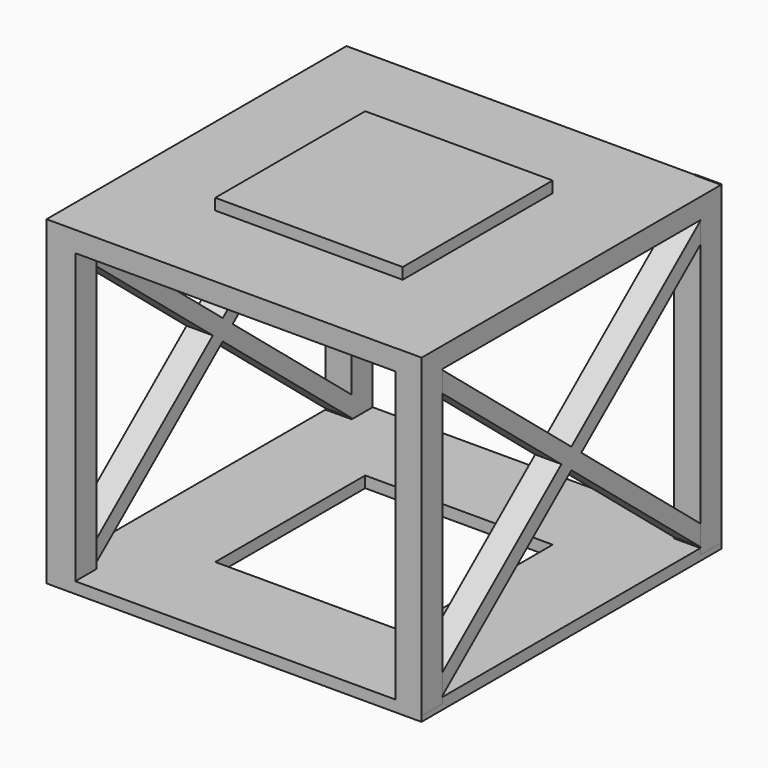
from build123d import *

# Parameters (mm, degrees)
F0_W      = 100
F0_H      = 100
F1_DEPTH  = 3
F3_DEPTH  = 7
F5_DEPTH  = 7
F7_DEPTH  = 7
F9_DEPTH  = 7
F10_W     = 100.0225
F10_H     = 5.475754
F11_DEPTH = 100
F12_W     = 50.0005
F12_H     = 50
F13_DEPTH = 3
F14_W     = 50
F14_H     = 50
F15_DEPTH = 25
F16_W     = 7.665687
F16_H     = 7
F17_DEPTH = 84.7
F18_W     = 7
F18_H     = 7
F19_DEPTH = 84.1


with BuildPart() as f1:
    # F0 (on Top) → F1 (new body)
    with BuildSketch(Plane.XY):
        with Locations((5.625, -3.024291)):
            Rectangle(F0_W, F0_H)
    extrude(amount=F1_DEPTH)

    # F2 (on face) → F3 (join)
    with BuildSketch(Plane(origin=(-44.375, 0, 0), x_dir=(0, -1, 0), z_dir=(-1, 0, 0))):
        Polygon((-46.975709, 0), (-43.975709, 0), (53.024291, 80.049396), (53.024291, 85.52515), (-46.975709, 3), align=None)
    extrude(amount=-F3_DEPTH)

    # F4 (on face) → F5 (join)
    with BuildSketch(Plane(origin=(-44.375, 0, 0), x_dir=(0, -1, 0), z_dir=(-1, 0, 0))):
        Polygon((-46.975709, 80.049396), (50.024291, 0), (53.024291, 0), (53.024291, 3), (-46.975709, 85.52515), align=None)
    extrude(amount=-F5_DEPTH)

    # F6 (on face) → F7 (join)
    with BuildSketch(Plane.YZ.offset(55.625)):
        Polygon((-53.024291, 0), (-50.024291, 0), (46.975709, 80.049396), (46.975709, 85.644148), (-53.024291, 3), align=None)
    extrude(amount=-F7_DEPTH)

    # F8 (on face) → F9 (join)
    with BuildSketch(Plane.YZ.offset(55.625)):
        Polygon((-53.024291, 80.049396), (43.975709, 0), (46.975709, 0), (46.975709, 3), (-53.024291, 85.554466), align=None)
    extrude(amount=-F9_DEPTH)

    # F10 (on face) → F11 (join)
    with BuildSketch(Plane.XZ.offset(53.024291)):
        with Locations((5.63625, 82.787273)):
            Rectangle(F10_W, F10_H)
    extrude(amount=-F11_DEPTH)

    # F12 (on face) → F13 (join)
    with BuildSketch(Plane.XY.offset(85.52515)):
        with Locations((5.62525, -3.024291)):
            Rectangle(F12_W, F12_H)
    extrude(amount=F13_DEPTH)

    # F14 (on face) → F15 (cut)
    with BuildSketch(Plane(origin=(0, 0, 0), x_dir=(1, 0, 0), z_dir=(0, 0, -1))):
        with Locations((5.625, 3.024291)):
            Rectangle(F14_W, F14_H)
    extrude(amount=-F15_DEPTH, mode=Mode.SUBTRACT)

    # F16 (on face) → F17 (join)
    with BuildSketch(Plane.XY.offset(85.52515)):
        with Locations((-40.542157, -49.524291)):
            Rectangle(F16_W, F16_H)
    extrude(amount=-F17_DEPTH)

    # F18 (on face) → F19 (join)
    with BuildSketch(Plane.XY.offset(85.52515)):
        with Locations((-40.875, 43.475709)):
            Rectangle(F18_W, F18_H)
        with Locations((52.1475, 43.475709)):
            Rectangle(F18_W, F18_H)
        with Locations((52.1475, -49.524291)):
            Rectangle(F18_W, F18_H)
    extrude(amount=-F19_DEPTH)


solid = f1.part
